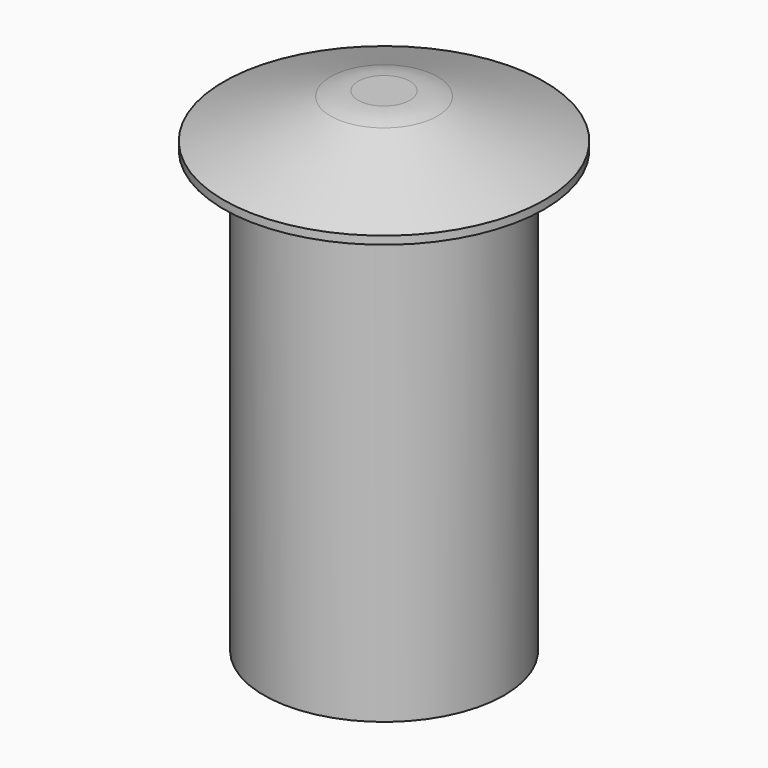
from build123d import *

# Parameters (mm, degrees)
F0_R     = 3
F1_DEPTH = 11
F2_R     = 4
F3_DEPTH = 1.3
F4_SIZE2 = 1.1
F4_SIZE  = 3
F5_R     = 2


with BuildPart() as f1:
    # F0 (on Top) → F1 (new body)
    with BuildSketch(Plane.XY):
        Circle(F0_R)
    extrude(amount=F1_DEPTH)

    # F2 (on face) → F3 (join)
    with BuildSketch(Plane.XY.offset(11)):
        Circle(F2_R)
    extrude(amount=F3_DEPTH)

    # F4
    f4_edges = [f1.edges().sort_by_distance(p)[0] for p in [
        (-4, 0, 12.3),
    ]]
    f4_side = f1.faces().sort_by_distance((0, 0, 12.3))[0]
    chamfer(f4_edges, length=F4_SIZE, length2=F4_SIZE2, reference=f4_side)

    # F5
    f5_edges = [f1.edges().sort_by_distance(p)[0] for p in [
        (-1, 0, 12.3),
    ]]
    fillet(f5_edges, radius=F5_R)


solid = f1.part
